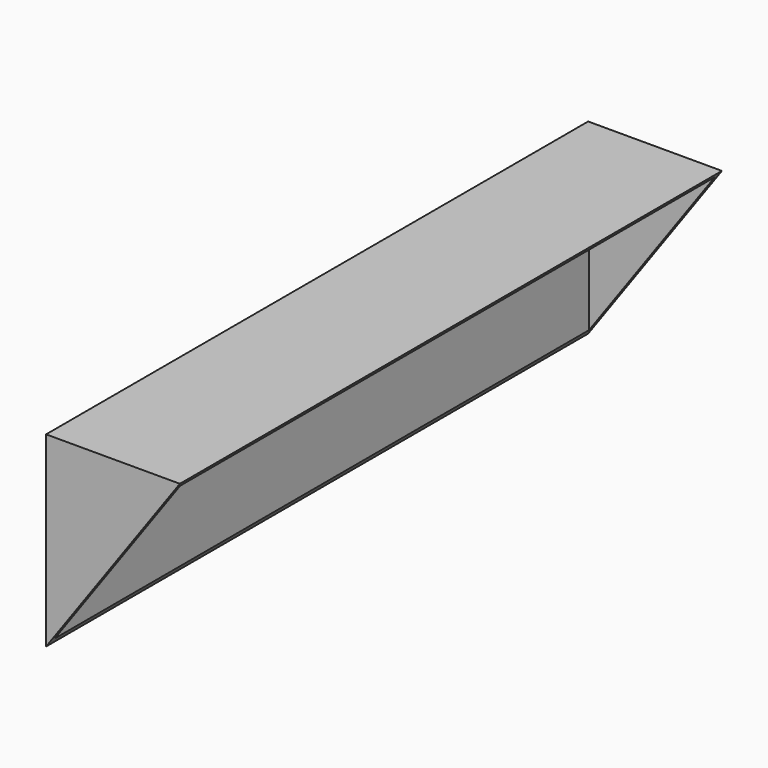
from build123d import *

# Parameters (mm, degrees)
F0_W     = 42.25
F0_H     = 214
F1_DEPTH = 59
F3_DEPTH = 214
F4_T     = -1.5


with BuildPart() as f1:
    # F0 (on Top) → F1 (new body)
    with BuildSketch(Plane.XY):
        with Locations((21.125, 107)):
            Rectangle(F0_W, F0_H)
    extrude(amount=F1_DEPTH)

    # F2 (on face) → F3 (cut, through all)
    with BuildSketch(Plane(origin=(0, 214, 0), x_dir=(-1, 0, 0), z_dir=(0, 1, 0))):
        Polygon((0, 0), (-42.25, 59), (-42.25, 0), align=None)
    extrude(amount=-F3_DEPTH, mode=Mode.SUBTRACT)

    # F4
    f4_openings = [f1.faces().sort_by_distance(p)[0] for p in [
        (21.125, 107, 29.5),
    ]]
    offset(amount=F4_T, openings=f4_openings)


solid = f1.part
